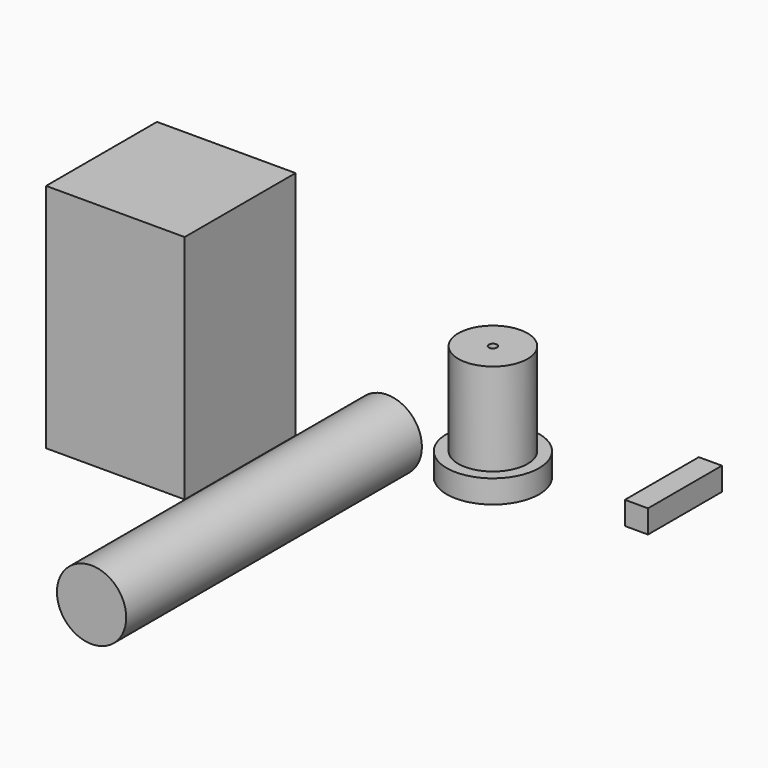
from build123d import *

# Parameters (mm, degrees)
F0_R     = 50.8
F0_R_2   = 4.479842
F1_DEPTH = 25.4
F2_R     = 38.1
F3_DEPTH = 406.4
F4_W     = 152.4
F4_H     = 152.4
F5_DEPTH = 254
F6_R     = 38.1
F6_R_2   = 4.479842
F7_DEPTH = 101.6
F8_W     = 25.4
F8_H     = 101.6
F9_DEPTH = 25.4


with BuildPart() as f1:
    # F0 (on Top) → F1 (new body)
    with BuildSketch(Plane.XY):
        Circle(F0_R)
        Circle(F0_R_2, mode=Mode.SUBTRACT)
    extrude(amount=F1_DEPTH)

    # F6 (on face) → F7 (join)
    with BuildSketch(Plane.XY.offset(25.4)):
        Circle(F6_R)
        Circle(F6_R_2, mode=Mode.SUBTRACT)
    extrude(amount=F7_DEPTH)


with BuildPart() as f3:
    # F2 (on Front) → F3 (new body)
    with BuildSketch(Plane.XZ):
        with Locations((-116.20196, 4.024441)):
            Circle(F2_R)
    extrude(amount=F3_DEPTH)


with BuildPart() as f5:
    # F4 (on Top) → F5 (new body)
    with BuildSketch(Plane.XY):
        with Locations((-257.083073, -121.361681)):
            Rectangle(F4_W, F4_H)
    extrude(amount=F5_DEPTH)


with BuildPart() as f9:
    # F8 (on Top) → F9 (new body)
    with BuildSketch(Plane.XY):
        with Locations((157.806885, 50.8)):
            Rectangle(F8_W, F8_H)
    extrude(amount=F9_DEPTH)


solid = Compound([f1.part, f3.part, f5.part, f9.part])
